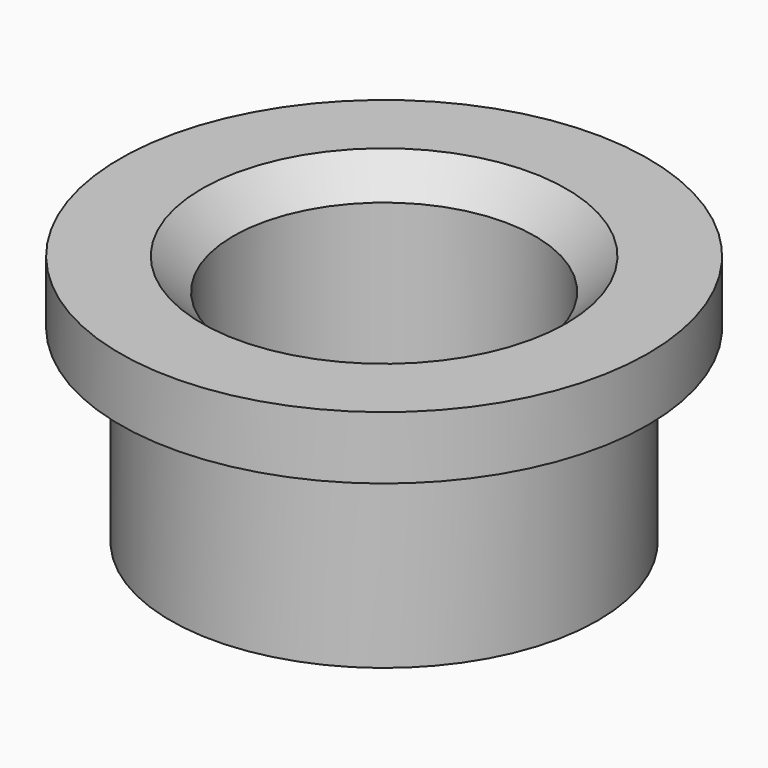
from build123d import *

# Parameters (mm, degrees)
F2_SIZE = 5


with BuildPart() as f1:
    # F0 (on Front) → F1 (revolve)
    with BuildSketch(Plane.XZ):
        Polygon((24, 0), (34, 0), (34, 30), (42, 30), (42, 40), (24, 40), align=None)
    revolve(axis=Axis((0, 0, 19.748865), (0, 0, 1)))

    # F2
    f2_edges = [f1.edges().sort_by_distance(p)[0] for p in [
        (-24, 0, 40),
    ]]
    chamfer(f2_edges, length=F2_SIZE)


solid = f1.part
